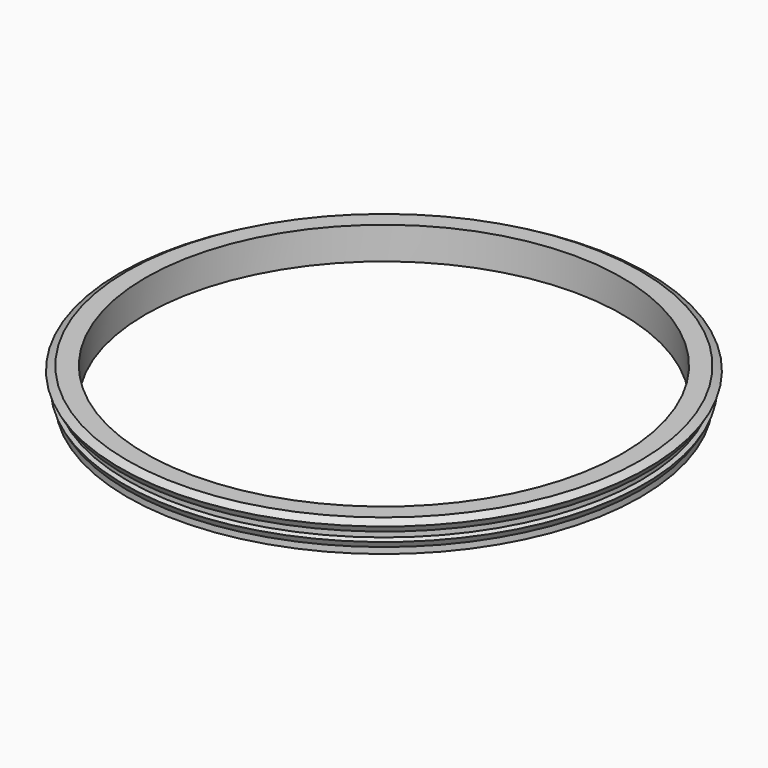
from build123d import *


with BuildPart() as f1:
    # F0 (on Front) → F1 (revolve)
    with BuildSketch(Plane.XZ):
        Polygon((-41.275, 0), (-44.45, 0), (-44.45, -1.46647), (-44.45, -3.05397), (-44.45, -4.520439), (-44.45, -5.588), (-41.275, -5.588), align=None)
        Polygon((-44.45, -1.46647), (-44.45, 0), (-45.72, -0.733235), (-45.085, -1.833087), align=None)
        Polygon((-44.45, -4.520439), (-44.45, -3.05397), (-45.085, -3.420587), align=None)
    revolve(axis=Axis((0, 0, -1.429696), (0, 0, -1)))


solid = f1.part
